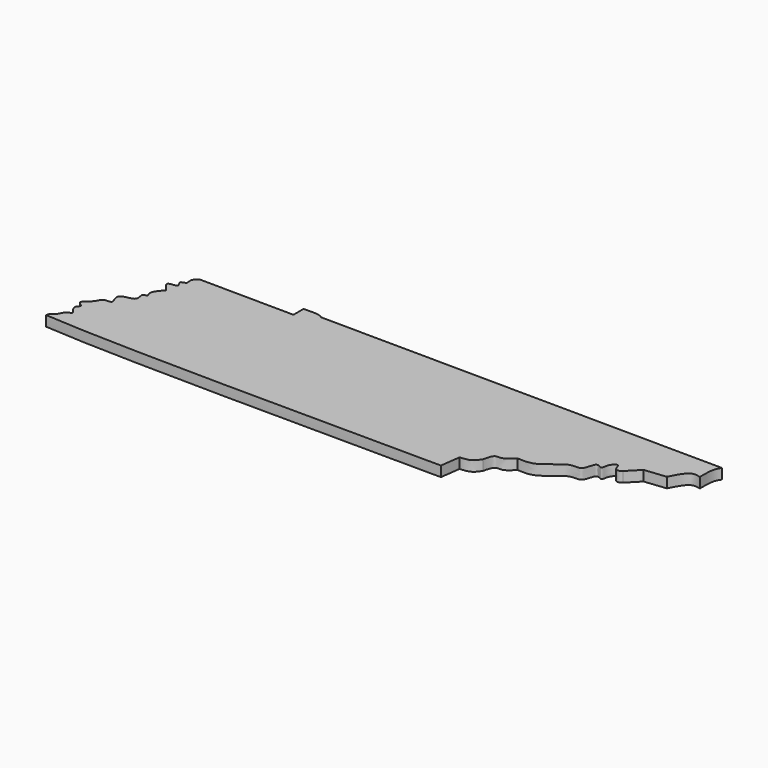
from build123d import *

# Parameters (mm, degrees)
F1_DEPTH = 2


with BuildPart() as f1:
    # F0 (on Top) → F1 (new body)
    with BuildSketch(Plane.XY):
        with BuildLine():
            Line((51.9336387515, 16.2763576955), (-26.8163625151, 16.9409140944))
            add(Edge.make_bspline(
                [(-28.2998420298, 17.448650673), (-27.9843120044, 17.3925225783), (-27.4005934576, 17.2886877377), (-27.0002840231, 17.0503965752), (-26.8163625151, 16.9409140944)],
                knots=[0, 0, 0, 0, 0.5405516529, 1, 1, 1, 1], degree=3))
            Line((-28.2998420298, 17.448650673), (-30.6673254818, 17.448650673))
            Line((-30.6673254818, 17.448650673), (-30.6673254818, 14.9565627798))
            Line((-30.6673254818, 14.9565627798), (-49.0762479603, 15.1373557746))
            add(Edge.make_bspline(
                [(-50.8420653641, 9.1360472143), (-51.592913609, 9.9394600417), (-52.9768135668, 11.4202425908), (-49.7008223032, 11.0784744025), (-51.4162524623, 12.7563634321), (-49.5731199418, 12.778454639), (-50.3107744989, 14.21755819), (-49.50597777, 14.8171808504), (-49.0762479603, 15.1373557746)],
                knots=[0, 0, 0, 0, 0.2127115513, 0.3920519344, 0.5426183072, 0.6825877833, 0.8305143565, 1, 1, 1, 1], degree=3))
            add(Edge.make_bspline(
                [(-60.0512539122, -8.6784082929), (-59.9751959162, -8.3748541868), (-59.8415292204, -7.7706500627), (-59.0540833301, -7.63580995), (-58.6077317125, -6.519382298), (-58.154898997, -5.8717447345), (-56.8044970149, -5.7078098777), (-58.9884742633, -3.9323955363), (-57.2376839834, -2.9885700862), (-59.4252737158, -2.1039218893), (-56.995841814, -0.8053994761), (-56.6626811229, 1.0808808354), (-54.3089640004, 0.5820525405), (-55.8473724272, 2.8340297491), (-54.3802740555, 3.6757855778), (-52.0774499542, 3.764645777), (-53.1827120249, 6.100041992), (-51.573644535, 5.7360544566), (-52.7493151327, 7.0615178158), (-51.578549184, 8.3349684248), (-50.8420653641, 9.1360472143)],
                knots=[0, 0, 0, 0, 0.0453699096, 0.0854710096, 0.1373653807, 0.18218921, 0.2240194961, 0.2905296975, 0.3409208145, 0.3942747049, 0.4624759821, 0.5277356306, 0.5841157254, 0.6474382983, 0.7044411561, 0.7699758822, 0.8310187192, 0.8726806743, 0.9197754909, 1, 1, 1, 1], degree=3))
            add(Edge.make_bspline(
                [(17.9781242976, -9.8701303527), (-16.2115626651, -9.7086936034), (-47.4437134536, -9.7093431316), (-60.0512539122, -8.6784082929)],
                knots=[0, 0, 0, 0, 78.0384781072, 78.0384781072, 78.0384781072, 78.0384781072], degree=3))
            Line((17.9781242976, -9.8701303527), (18.5136921555, -5.9507445135))
            add(Edge.make_bspline(
                [(21.7244140804, -4.2147948407), (21.385766735, -4.7383836444), (20.6806828478, -5.8119112796), (19.2541547475, -5.9189063755), (18.5136921555, -5.9507445135)],
                knots=[0, 0, 0, 0, 0.4817559846, 1, 1, 1, 1], degree=3))
            add(Edge.make_bspline(
                [(25.596473366, -0.7166455034), (25.0134486891, -1.4007848363), (23.9066838643, -2.4064786501), (22.2569465668, -1.9529313104), (21.8977569765, -3.3649358012), (21.7244140804, -4.2147948407)],
                knots=[0, 0, 0, 0, 0.3740889481, 0.6480110337, 1, 1, 1, 1], degree=3))
            add(Edge.make_bspline(
                [(40.7839678228, 6.0384008102), (40.4057835378, 5.6523734362), (39.3050416939, 5.5470554366), (39.2063953998, 7.7105262594), (37.5697828982, 6.2289499322), (37.8226626944, 4.3292529732), (35.9394040974, 6.0361426568), (35.8019666375, 2.0952475943), (32.8304373029, 3.3605814008), (29.2616690284, -1.1451951825), (26.4688266655, -0.7356391698), (25.596473366, -0.7166455034)],
                knots=[0, 0, 0, 0, 0.0859227106, 0.1757746251, 0.2699012162, 0.3585401825, 0.4421282353, 0.5640539754, 0.6793063712, 0.8574103725, 1, 1, 1, 1], degree=3))
            Line((40.7839678228, 6.0384008102), (43.0066734552, 8.3105014637))
            Line((43.0066734552, 8.3105014637), (47.2051203251, 8.755043149))
            add(Edge.make_bspline(
                [(51.1566027999, 11.8668330833), (50.5441986054, 12.01107507), (49.0370647773, 12.3660562726), (47.8875467055, 10.1001989001), (47.2051203251, 8.755043149)],
                knots=[0, 0, 0, 0, 0.4063369709, 1, 1, 1, 1], degree=3))
            add(Edge.make_bspline(
                [(51.9336387515, 16.2763576955), (51.7109673484, 15.9332678017), (51.1422182646, 15.0569448434), (51.1511611504, 13.0736478835), (51.1566027999, 11.8668330833)],
                knots=[0, 0, 0, 0, 0.3915107901, 1, 1, 1, 1], degree=3))
        make_face()
    extrude(amount=F1_DEPTH)


solid = f1.part
